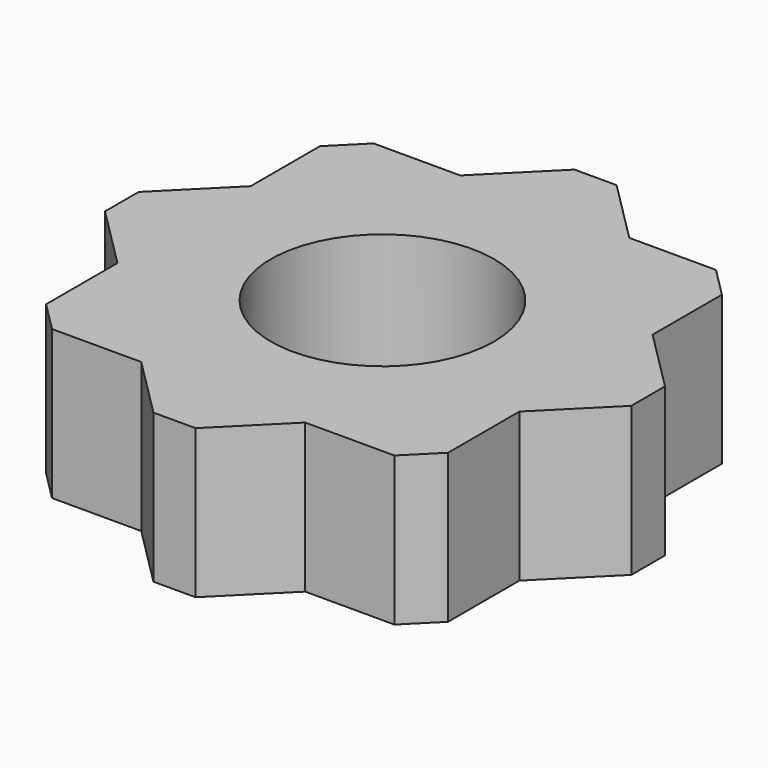
from build123d import *

# Parameters (mm, degrees)
F0_R     = 7.5
F1_DEPTH = 10
F2_SIZE  = 2
F3_SIZE  = 2


with BuildPart() as f1:
    # F0 (on Top) → F1 (new body)
    with BuildSketch(Plane.XY):
        Polygon((-23.2808627188, 42.1585307921), (-28.9580689277, 36.4813245833), (-17.60365651, 36.4813245833), align=None)
        Polygon((-4.1889796268, 23.0666477001), (-9.7808627188, 28.6585307921), (-9.7808627188, 17.4747646081), align=None)
        Polygon((-17.7743027436, 9.4813245833), (-28.787422694, 9.4813245833), (-23.2808627188, 3.9747646081), align=None)
        Polygon((-17.60365651, 36.4813245833), (-28.9580689277, 36.4813245833), (-36.7808627188, 28.6585307921), (-36.7808627188, 17.4747646081), (-28.787422694, 9.4813245833), (-17.7743027436, 9.4813245833), (-9.7808627188, 17.4747646081), (-9.7808627188, 28.6585307921), align=None)
        with Locations((-23.2808627188, 22.8532869369)):
            Circle(F0_R, mode=Mode.SUBTRACT)
        Polygon((-36.7808627188, 17.4747646081), (-36.7808627188, 28.6585307921), (-42.3727458109, 23.0666477001), align=None)
        Polygon((-9.7808627188, 36.4813245833), (-17.60365651, 36.4813245833), (-9.7808627188, 28.6585307921), align=None)
        Polygon((-28.9580689277, 36.4813245833), (-36.7808627188, 36.4813245833), (-36.7808627188, 28.6585307921), align=None)
        Polygon((-28.787422694, 9.4813245833), (-36.7808627188, 17.4747646081), (-36.7808627188, 9.4813245833), align=None)
        Polygon((-9.7808627188, 9.4813245833), (-9.7808627188, 17.4747646081), (-17.7743027436, 9.4813245833), align=None)
    extrude(amount=F1_DEPTH)

    # F2
    f2_edges = [f1.edges().sort_by_distance(p)[0] for p in [
        (-4.18898, 23.066648, 5),
    ]]
    chamfer(f2_edges, length=F2_SIZE)

    # F3
    f3_edges = [f1.edges().sort_by_distance(p)[0] for p in [
        (-9.780863, 9.481325, 5),
        (-23.280863, 3.974765, 5),
        (-36.780863, 9.481325, 5),
        (-9.780863, 36.481325, 5),
        (-23.280863, 42.158531, 5),
        (-36.780863, 36.481325, 5),
        (-42.372746, 23.066648, 5),
    ]]
    chamfer(f3_edges, length=F3_SIZE)


solid = f1.part
